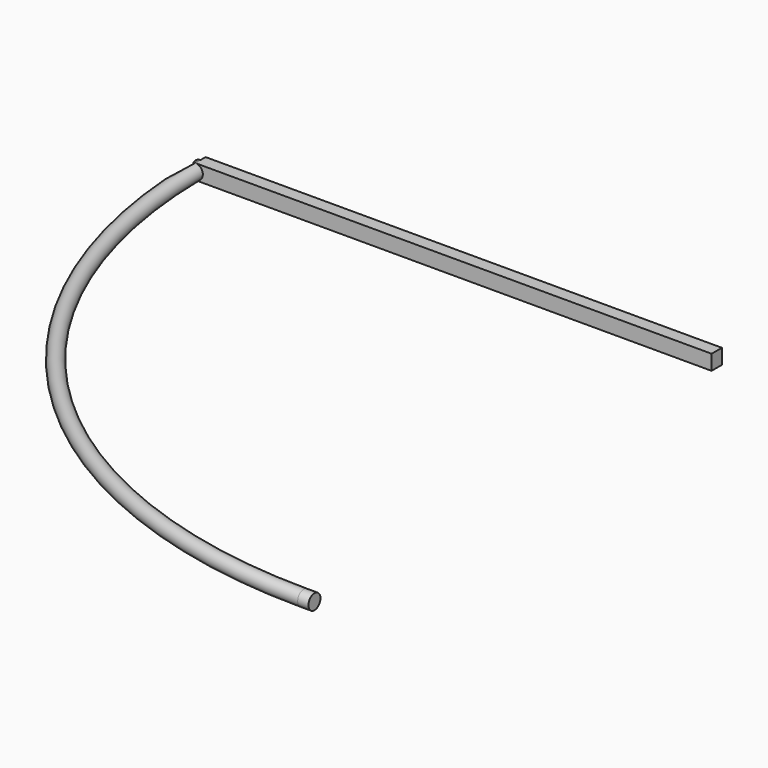
from build123d import *

# Parameters (mm, degrees)
F0_R     = 35
F2_ANGLE = 90
F3_W     = 60
F3_H     = 70
F4_DEPTH = 2400
F5_R     = 35
F6_DEPTH = 50


with BuildPart() as f2:
    # F0 (on Front) → F2 (revolve)
    with BuildSketch(Plane.XZ):
        with Locations((-2400, 0)):
            Circle(F0_R)
    revolve(axis=Axis((0, 0, 33.3255), (0, 0, 1)), revolution_arc=F2_ANGLE)

    # F3 (on Right) → F4 (join)
    with BuildSketch(Plane.YZ):
        Rectangle(F3_W, F3_H)
    extrude(amount=-F4_DEPTH)

    # F5 (on face) → F6 (join)
    with BuildSketch(Plane.YZ):
        with Locations((-2400, 0)):
            Circle(F5_R)
    extrude(amount=F6_DEPTH)


solid = f2.part
